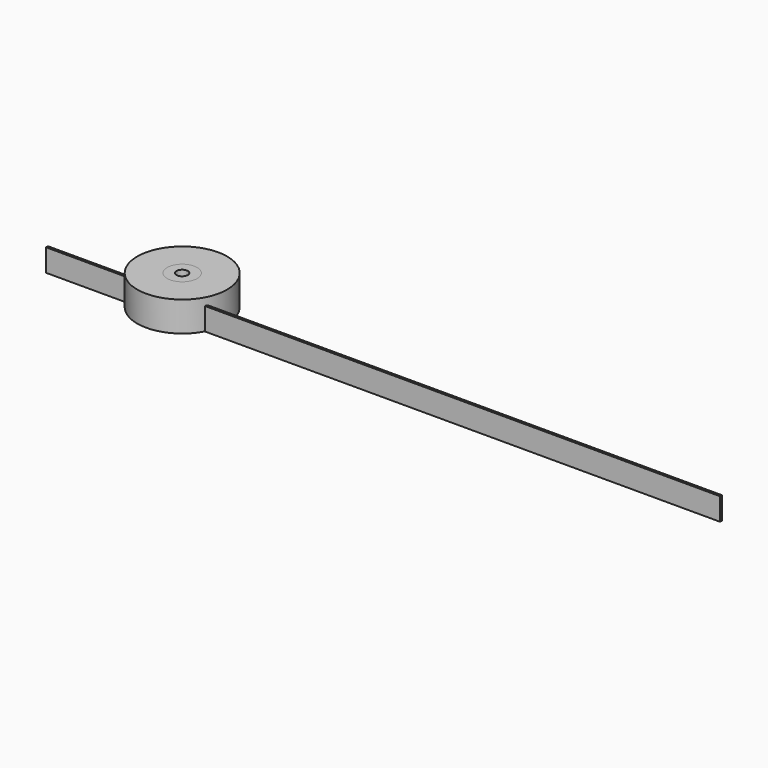
from build123d import *

# Parameters (mm, degrees)
F0_R     = 5
F0_R_2   = 1.5
F1_DEPTH = 8
F2_R     = 8
F2_R_2   = 5
F3_DEPTH = 8
F4_R     = 12
F4_R_2   = 4
F5_DEPTH = 8
F6_W     = 180
F6_H     = 0.63
F7_DEPTH = 6


with BuildPart() as f1:
    # F0 (on Top) → F1 (new body)
    with BuildSketch(Plane.XY):
        Circle(F0_R)
        Circle(F0_R_2, mode=Mode.SUBTRACT)
    extrude(amount=F1_DEPTH)


with BuildPart() as f3:
    # F2 (on Top) → F3 (new body)
    with BuildSketch(Plane.XY):
        Circle(F2_R)
        Circle(F2_R_2, mode=Mode.SUBTRACT)
    extrude(amount=F3_DEPTH)


with BuildPart() as f5:
    # F4 (on Top) → F5 (new body)
    with BuildSketch(Plane.XY):
        Circle(F4_R)
        Circle(F4_R_2, mode=Mode.SUBTRACT)
    extrude(amount=F5_DEPTH)


with BuildPart() as f7:
    # F6 (on Top) → F7 (new body)
    with BuildSketch(Plane.XY):
        with Locations((58.182056, -5.354627)):
            Rectangle(F6_W, F6_H)
    extrude(amount=F7_DEPTH)


solid = Compound([f1.part, f3.part, f5.part, f7.part])
